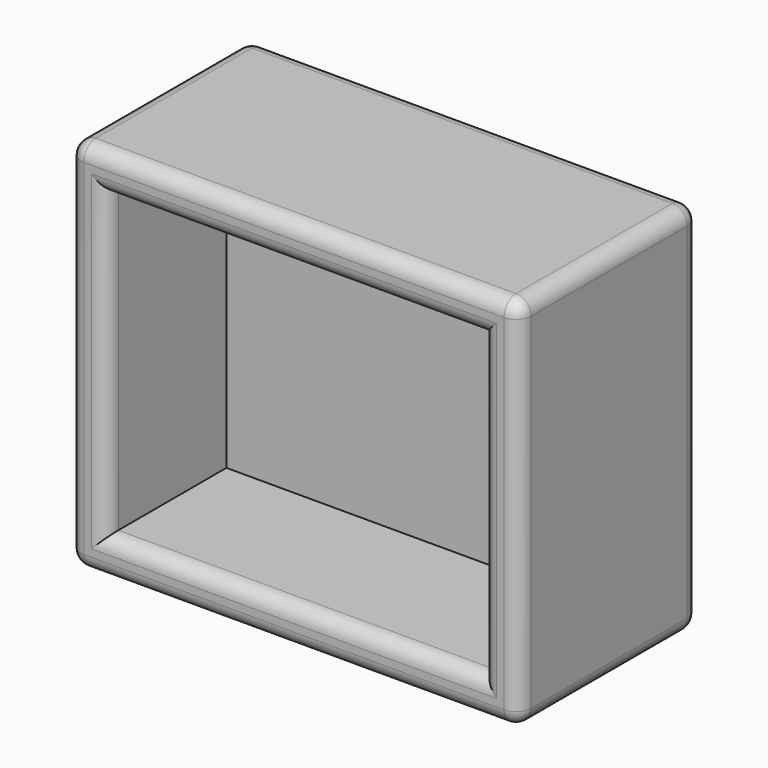
from build123d import *

# Parameters (mm, degrees)
F0_W     = 152.4
F0_H     = 127
F1_DEPTH = 76.2
F2_W     = 127
F2_H     = 101.6
F3_DEPTH = 50.8
F4_R     = 5.08


with BuildPart() as f1:
    # F0 (on Front) → F1 (new body)
    with BuildSketch(Plane.XZ):
        Rectangle(F0_W, F0_H)
    extrude(amount=-F1_DEPTH)

    # F2 (on face) → F3 (cut)
    with BuildSketch(Plane.XZ):
        Rectangle(F2_W, F2_H)
    extrude(amount=-F3_DEPTH, mode=Mode.SUBTRACT)

    # F4
    f4_edges = [f1.edges().sort_by_distance(p)[0] for p in [
        (-76.2, 0, 0),
        (0, 0, 63.5),
        (0, 0, 50.8),
        (-63.5, 0, 0),
        (0, 0, -50.8),
        (0, 0, -63.5),
        (76.2, 0, 0),
        (63.5, 0, 0),
        (76.2, 38.1, 63.5),
        (76.2, 76.2, 0),
        (76.2, 38.1, -63.5),
        (-76.2, 38.1, 63.5),
        (0, 76.2, 63.5),
        (-76.2, 38.1, -63.5),
        (-76.2, 76.2, 0),
        (0, 76.2, -63.5),
    ]]
    fillet(f4_edges, radius=F4_R)


solid = f1.part
